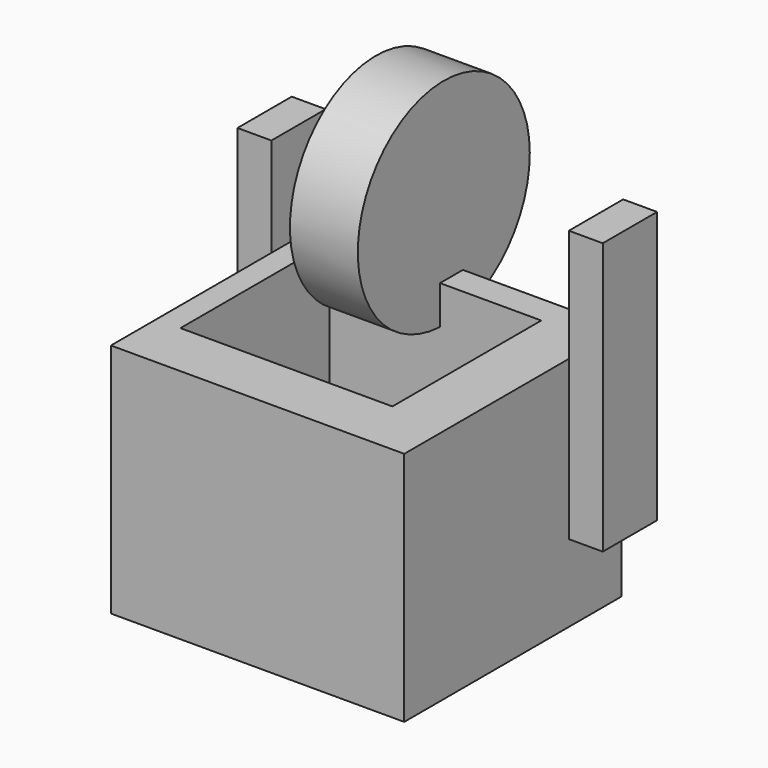
from build123d import *

# Parameters (mm, degrees)
F0_W     = 109.7702998668
F0_H     = 88.3209286258
F1_DEPTH = 101.6
F3_DEPTH = 76.2
F4_W     = 12.7
F4_H     = 101.6
F5_DEPTH = 25.4
F6_R     = 40.221719965
F7_DEPTH = 25.4


with BuildPart() as f1:
    # F0 (on Front) → F1 (new body)
    with BuildSketch(Plane.XZ):
        with Locations((29.8420181498, -35.3527204134)):
            Rectangle(F0_W, F0_H)
    extrude(amount=F1_DEPTH)

    # F2 (on face) → F3 (cut)
    with BuildSketch(Plane.XY.offset(8.8077438995)):
        Polygon((63.2861107588, -10.6992227957), (-16.0411931574, -10.6992227957), (-16.0411931574, -80.335855484), (63.2861107588, -80.335855484), (63.2861107588, -18.5826886445), align=None)
    extrude(amount=-F3_DEPTH, mode=Mode.SUBTRACT)

    # F6 (on Right) → F7 (join)
    with BuildSketch(Plane.YZ):
        with Locations((-8.9369295165, 34.5467254519)):
            Circle(F6_R)
    extrude(amount=F7_DEPTH)


with BuildPart() as f5:
    # F4 (on Front) → F5 (new body)
    with BuildSketch(Plane.XZ):
        with Locations((-32.3043470117, -5.7396613061)):
            Rectangle(F4_W, F4_H)
    extrude(amount=F5_DEPTH)


with BuildPart() as f5b:
    # F4 (on Front) → F5, piece 2 (new body)
    with BuildSketch(Plane.XZ):
        with Locations((91.7142001748, 0.7425590038)):
            Rectangle(F4_W, F4_H)
    extrude(amount=F5_DEPTH)


solid = Compound([f1.part, f5.part, f5b.part])
